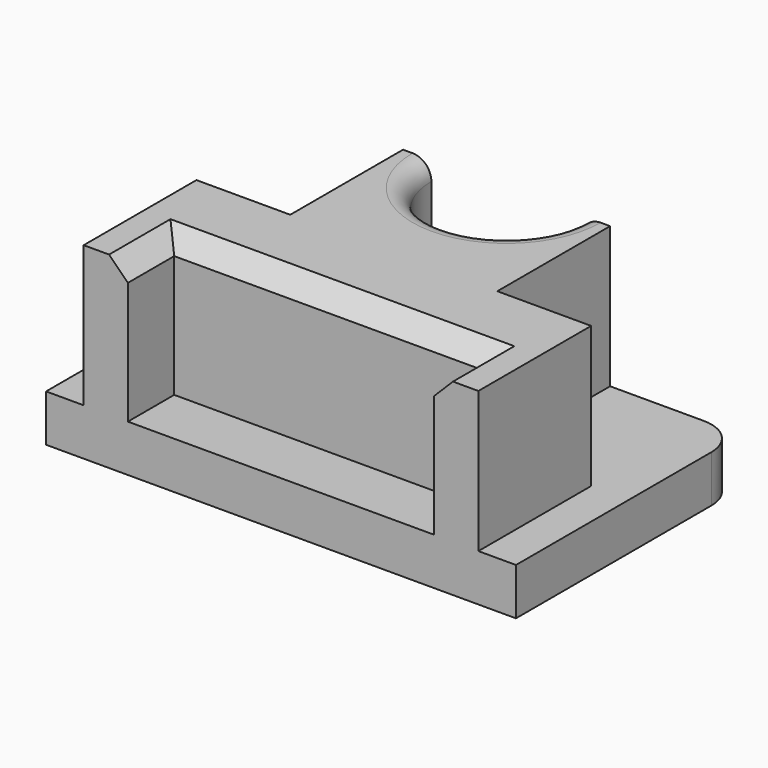
from build123d import *

# Parameters (mm, degrees)
F0_W     = 63.5
F0_H     = 38.1
F1_DEPTH = 6.35
F2_R     = 5.08
F4_DEPTH = 19.05
F3_R     = 10.16
F5_DEPTH = 25.4
F6_R     = 2.54
F7_SIZE  = 2.54


with BuildPart() as f1:
    # F0 (on Top) → F1 (new body)
    with BuildSketch(Plane.XY):
        Rectangle(F0_W, F0_H)
    extrude(amount=F1_DEPTH)

    # F2
    f2_edges = [f1.edges().sort_by_distance(p)[0] for p in [
        (-31.75, 19.05, 3.175),
        (31.75, 19.05, 3.175),
    ]]
    fillet(f2_edges, radius=F2_R)

    # F3 (on face) → F4 (join)
    with BuildSketch(Plane.XY.offset(6.35)):
        with BuildLine():
            Line((13.9908194542, 19.05), (10.16, 19.05))
            ThreePointArc((10.16, 19.05), (0, 8.89), (-10.16, 19.05))
            Line((-10.16, 19.05), (-13.9908194542, 19.05))
            Line((-13.9908194542, 19.05), (-13.9908194542, 0))
            Line((-13.9908194542, 0), (-26.67, 0))
            Line((-26.67, 0), (-26.67, -19.05))
            Line((-26.67, -19.05), (-20.6947550178, -19.05))
            Line((-20.6947550178, -19.05), (-20.6947550178, -11.2218027934))
            Line((-20.6947550178, -11.2218027934), (0, -11.2218027934))
            Line((0, -11.2218027934), (20.6947550178, -11.2218027934))
            Line((20.6947550178, -11.2218027934), (20.6947550178, -19.05))
            Line((20.6947550178, -19.05), (26.67, -19.05))
            Line((26.67, -19.05), (26.67, 0))
            Line((26.67, 0), (13.9908194542, 0))
            Line((13.9908194542, 0), (13.9908194542, 19.05))
        make_face()
    extrude(amount=F4_DEPTH)

    # F3 (on face) → F5 (cut)
    with BuildSketch(Plane.XY.offset(6.35)):
        with Locations((0, 19.05)):
            Circle(F3_R)
    extrude(amount=-F5_DEPTH, mode=Mode.SUBTRACT)

    # F6
    f6_edges = [f1.edges().sort_by_distance(p)[0] for p in [
        (0, 8.89, 25.4),
    ]]
    fillet(f6_edges, radius=F6_R)

    # F7
    f7_edges = [f1.edges().sort_by_distance(p)[0] for p in [
        (0, -11.221803, 25.4),
        (-20.694755, -15.135901, 25.4),
        (20.694755, -15.135901, 25.4),
    ]]
    chamfer(f7_edges, length=F7_SIZE)


solid = f1.part
